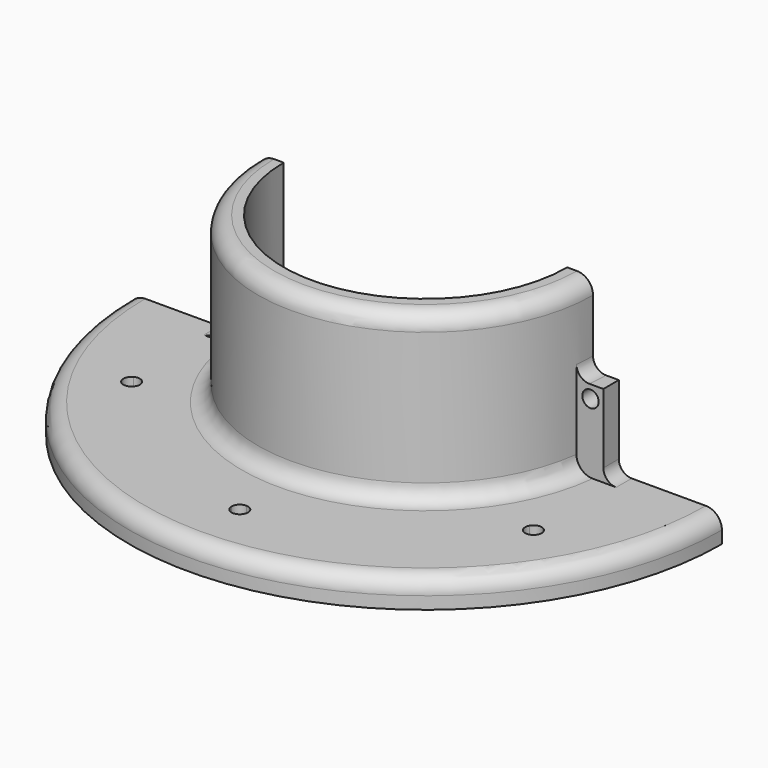
from build123d import *

# Parameters (mm, degrees)
F1_ANGLE  = 180
F2_W      = 10.16
F2_H      = 10.16
F3_DEPTH  = 7.62
F4_R      = 3.2385
F5_DEPTH  = 25.4
F6_W      = 10.16
F6_H      = 10.16
F7_DEPTH  = 7.62
F8_R      = 3.2385
F9_DEPTH  = 25.4
F11_DEPTH = 25.4
F12_DEPTH = 25.4
F13_DEPTH = 25.4
F14_R     = 5.08


with BuildPart() as f1:
    # F0 (on Front) → F1 (revolve)
    with BuildSketch(Plane.XZ):
        with BuildLine():
            Line((-62.4678657544, 68.8326101213), (-66.2778657544, 68.8326101213))
            Line((-66.2778657544, 68.8326101213), (-66.2778657544, -7.3673898787))
            Line((-66.2778657544, -7.3673898787), (-56.3942688751, -7.3673898787))
            Line((-56.3942688751, -7.3673898787), (-5.3178657544, -7.3673898787))
            Line((-5.3178657544, -7.3673898787), (-5.3178657544, -2.4929920513))
            ThreePointArc((-5.3178657544, -2.4929920513), (-7.1777376938, 1.9971360092), (-11.6678657544, 3.8570079487))
            Line((-11.6678657544, 3.8570079487), (-49.7678657544, 3.8570079487))
            ThreePointArc((-49.7678657544, 3.8570079487), (-54.2579938149, 5.7168798881), (-56.1178657544, 10.2070079487))
            Line((-56.1178657544, 10.2070079487), (-56.1178657544, 62.4826101213))
            ThreePointArc((-56.1178657544, 62.4826101213), (-57.9777376938, 66.9727381818), (-62.4678657544, 68.8326101213))
        make_face()
    revolve(axis=Axis((-122.1578657544, 0, 30.7326101213), (0, 0, -1)), revolution_arc=F1_ANGLE)

    # F2 (on face) → F3 (join)
    with BuildSketch(Plane(origin=(0, 0, 0), x_dir=(-1, 0, 0), z_dir=(0, 1, 0))):
        with Locations((61.1978657544, 31.264809035)):
            Rectangle(F2_W, F2_H)
        with Locations((51.0378657544, 31.264809035)):
            Rectangle(F2_W, F2_H)
    extrude(amount=-F3_DEPTH)

    # F4 (on face) → F5 (cut)
    with BuildSketch(Plane(origin=(0, 0, 0), x_dir=(-1, 0, 0), z_dir=(0, 1, 0))):
        with Locations((51.0378657544, 31.264809035)):
            Circle(F4_R)
    extrude(amount=-F5_DEPTH, mode=Mode.SUBTRACT)

    # F6 (on face) → F7 (join)
    with BuildSketch(Plane(origin=(0, 0, 0), x_dir=(-1, 0, 0), z_dir=(0, 1, 0))):
        with Locations((183.1178657544, 31.264809035)):
            Rectangle(F6_W, F6_H)
        with Locations((193.2778657544, 31.264809035)):
            Rectangle(F6_W, F6_H)
    extrude(amount=-F7_DEPTH)

    # F8 (on face) → F9 (cut)
    with BuildSketch(Plane(origin=(0, 0, 0), x_dir=(-1, 0, 0), z_dir=(0, 1, 0))):
        with Locations((193.2778657544, 31.264809035)):
            Circle(F8_R)
    extrude(amount=-F9_DEPTH, mode=Mode.SUBTRACT)

    # F10 (on face) → F11 (cut)
    with BuildSketch(Plane.XY.offset(3.8570079487)):
        with BuildLine():
            ThreePointArc((-201.347260479, -45.8019683397), (-202.1444682095, -44.3924875908), (-202.9165913892, -42.9691106405))
            ThreePointArc((-202.9165913892, -42.9691106405), (-204.1518837491, -47.4212183397), (-199.6785992012, -48.5774776245))
            ThreePointArc((-199.6785992012, -48.5774776245), (-200.5252182095, -47.1971108609), (-201.347260479, -45.8019683397))
        make_face()
        with BuildLine():
            ThreePointArc((-198.5426372088, -44.1827183397), (-200.4814096168, -42.6813619028), (-202.9165913892, -42.9691106405))
            ThreePointArc((-202.9165913892, -42.9691106405), (-202.1444682095, -44.3924875908), (-201.347260479, -45.8019683397))
            Line((-201.347260479, -45.8019683397), (-198.5426372088, -44.1827183397))
        make_face()
        with BuildLine():
            Line((-198.5426372088, -44.1827183397), (-201.347260479, -45.8019683397))
            ThreePointArc((-201.347260479, -45.8019683397), (-200.5252182095, -47.1971108609), (-199.6785992012, -48.5774776245))
            ThreePointArc((-199.6785992012, -48.5774776245), (-198.5284094898, -47.3963212966), (-198.108760479, -45.8019683397))
            ThreePointArc((-198.108760479, -45.8019683397), (-198.2191096905, -44.9637828622), (-198.5426372088, -44.1827183397))
        make_face()
        with BuildLine():
            ThreePointArc((-122.1578657544, -91.521986701), (-123.7771157544, -91.5076484732), (-125.3958579423, -91.4646382865))
            ThreePointArc((-125.3958579423, -91.4646382865), (-122.1865410857, -94.7603597455), (-118.9193657544, -91.521986701))
            ThreePointArc((-118.9193657544, -91.521986701), (-118.9194927099, -91.4933113696), (-118.9198735664, -91.4646382865))
            ThreePointArc((-118.9198735664, -91.4646382865), (-120.5386157544, -91.5076484732), (-122.1578657544, -91.521986701))
        make_face()
        with BuildLine():
            ThreePointArc((-122.1578657544, -88.283486701), (-124.4274647729, -89.2118346399), (-125.3958579423, -91.4646382865))
            ThreePointArc((-125.3958579423, -91.4646382865), (-123.7771157544, -91.5076484732), (-122.1578657544, -91.521986701))
            Line((-122.1578657544, -91.521986701), (-122.1578657544, -88.283486701))
        make_face()
        with BuildLine():
            ThreePointArc((-118.9198735664, -91.4646382865), (-119.8882667358, -89.2118346399), (-122.1578657544, -88.283486701))
            Line((-122.1578657544, -88.283486701), (-122.1578657544, -91.521986701))
            ThreePointArc((-122.1578657544, -91.521986701), (-120.5386157544, -91.5076484732), (-118.9198735664, -91.4646382865))
        make_face()
        with BuildLine():
            ThreePointArc((-39.7299710298, -45.8019683397), (-40.178295372, -44.1579482521), (-41.3991401196, -42.9691106405))
            ThreePointArc((-41.3991401196, -42.9691106405), (-42.1712632993, -44.3924875908), (-42.9684710298, -45.8019683397))
            ThreePointArc((-42.9684710298, -45.8019683397), (-43.7905132993, -47.1971108609), (-44.6371323075, -48.5774776245))
            ThreePointArc((-44.6371323075, -48.5774776245), (-41.3741180729, -48.6208193289), (-39.7299710298, -45.8019683397))
        make_face()
        with BuildLine():
            Line((-42.9684710298, -45.8019683397), (-45.7730942999, -44.1827183397))
            ThreePointArc((-45.7730942999, -44.1827183397), (-46.1039209105, -46.6124227157), (-44.6371323075, -48.5774776245))
            ThreePointArc((-44.6371323075, -48.5774776245), (-43.7905132993, -47.1971108609), (-42.9684710298, -45.8019683397))
        make_face()
        with BuildLine():
            ThreePointArc((-42.9684710298, -45.8019683397), (-42.1712632993, -44.3924875908), (-41.3991401196, -42.9691106405))
            ThreePointArc((-41.3991401196, -42.9691106405), (-43.834321892, -42.6813619028), (-45.7730942999, -44.1827183397))
            Line((-45.7730942999, -44.1827183397), (-42.9684710298, -45.8019683397))
        make_face()
    extrude(amount=-F11_DEPTH, mode=Mode.SUBTRACT)

    # F12 (add): a face of the model
    f12_faces = [f1.faces().sort_by_distance(p)[0] for p in [
        (-193.2036113422, -3.8371570424, 26.184809035),
    ]]
    extrude(f12_faces, amount=F12_DEPTH)

    # F13 (add): a face of the model
    f13_faces = [f1.faces().sort_by_distance(p)[0] for p in [
        (-51.1121201665, -3.8371570424, 26.184809035),
    ]]
    extrude(f13_faces, amount=F13_DEPTH)

    # F14
    f14_edges = [f1.edges().sort_by_distance(p)[0] for p in [
        (-198.357866, -3.81, 3.857008),
        (-188.087501, -3.816378, 36.344809),
        (-45.957866, -3.81, 3.857008),
        (-56.22823, -3.816378, 36.344809),
    ]]
    fillet(f14_edges, radius=F14_R)


solid = f1.part
